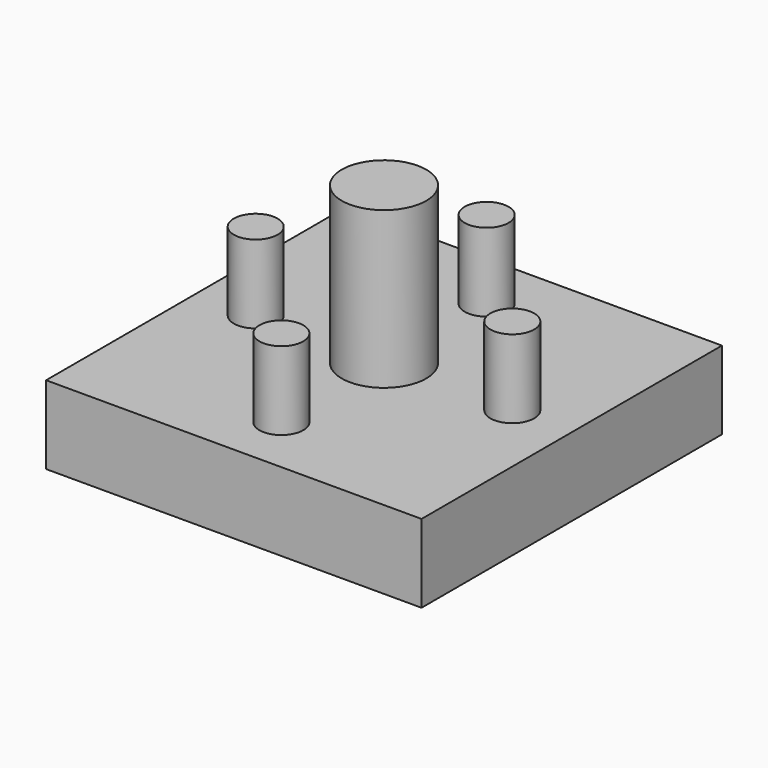
from build123d import *

# Parameters (mm, degrees)
F0_W     = 120
F0_H     = 120
F1_DEPTH = 25
F2_R     = 7
F3_DEPTH = 25
F4_R     = 13.5
F5_DEPTH = 50


with BuildPart() as f1:
    # F0 (on Top) → F1 (new body)
    with BuildSketch(Plane.XY):
        Rectangle(F0_W, F0_H)
    extrude(amount=F1_DEPTH)

    # F2 (on face) → F3 (join)
    with BuildSketch(Plane.XY.offset(25)):
        with Locations((0, 41)):
            Circle(F2_R)
        with Locations((-41, 0)):
            Circle(F2_R)
        with Locations((0, -41)):
            Circle(F2_R)
        with Locations((41, 0)):
            Circle(F2_R)
    extrude(amount=F3_DEPTH)

    # F4 (on face) → F5 (join)
    with BuildSketch(Plane.XY.offset(25)):
        Circle(F4_R)
    extrude(amount=F5_DEPTH)


solid = f1.part
